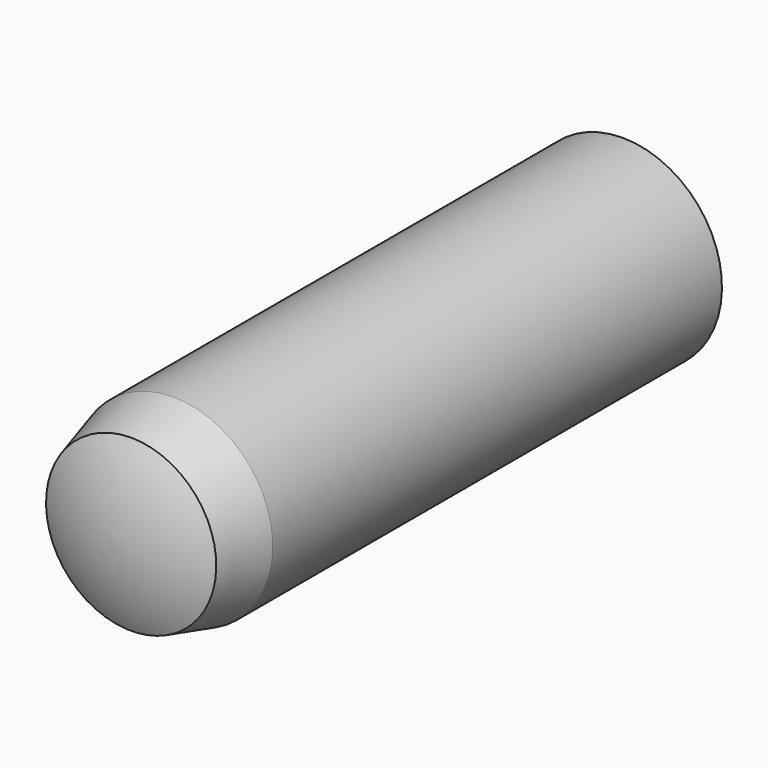
from build123d import *


with BuildPart() as part:
    # Sketch → Revolution (revolve)
    with BuildSketch(Plane.YZ):
        with BuildLine():
            ThreePointArc((0, 1.285641), (-0.224006, 0.660089), (-0.3, 0))
            Line((-0.3, 0), (9.7, 0))
            ThreePointArc((9.7, 0), (9.593741, 0.778477), (9.282739, 1.5))
            Line((0.8, 1.5), (9.282739, 1.5))
            Line((0, 1.285641), (0.8, 1.5))
        make_face()
    revolve(axis=Axis((0, 0, 0), (0, 1, 0)))


solid = part.part
